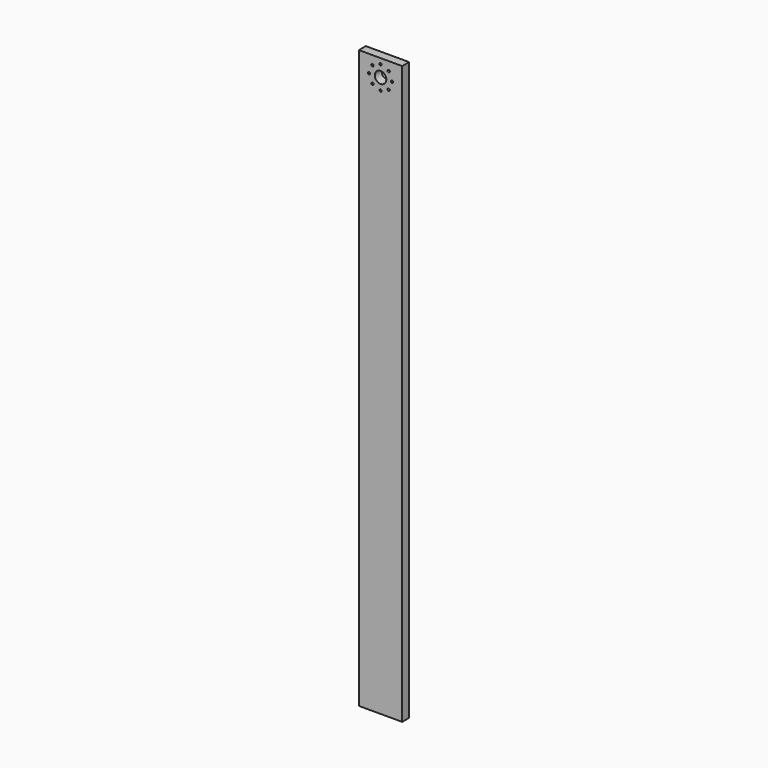
from build123d import *

# Parameters (mm, degrees)
F0_W     = 30
F0_H     = 6
F1_DEPTH = 200
F2_R     = 0.8
F2_R_2   = 4
F3_DEPTH = 6


with BuildPart() as f1:
    # F0 (on Top) → F1 (new body, symmetric)
    with BuildSketch(Plane.XY):
        Rectangle(F0_W, F0_H)
    extrude(amount=F1_DEPTH, both=True)

    # F2 (on face) → F3 (cut, through all)
    with BuildSketch(Plane.XZ.offset(3)):
        with Locations((0, 196.2)):
            Circle(F2_R)
        with Locations((0, 188.2)):
            Circle(F2_R_2)
        with Locations((-5.656854, 193.856854)):
            Circle(F2_R)
        with Locations((-8, 188.2)):
            Circle(F2_R)
        with Locations((-5.656854, 182.543146)):
            Circle(F2_R)
        with Locations((0, 180.2)):
            Circle(F2_R)
        with Locations((5.656854, 182.543146)):
            Circle(F2_R)
        with Locations((8, 188.2)):
            Circle(F2_R)
        with Locations((5.656854, 193.856854)):
            Circle(F2_R)
    extrude(amount=-F3_DEPTH, mode=Mode.SUBTRACT)


solid = f1.part
